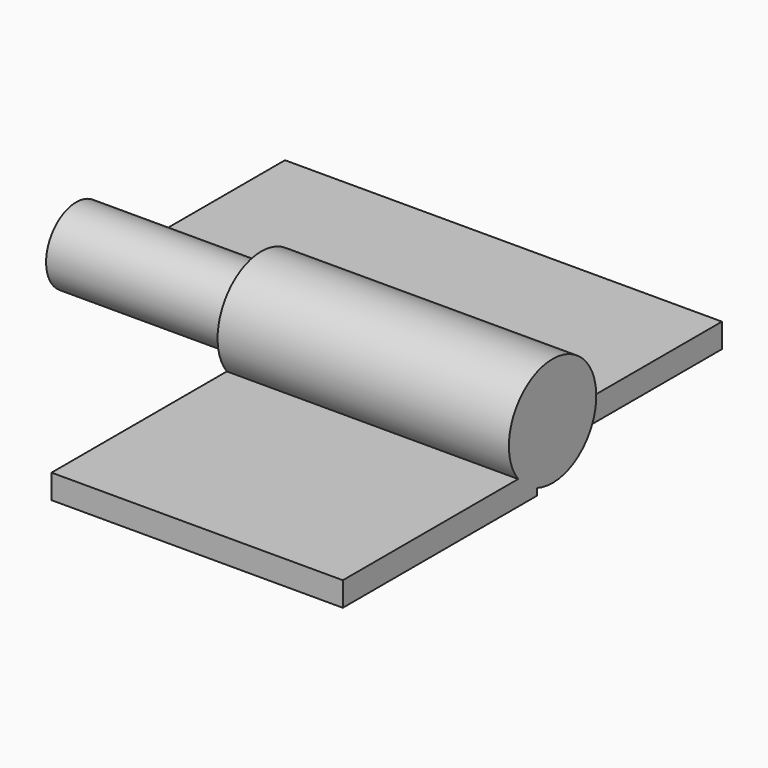
from build123d import *

# Parameters (mm, degrees)
PAD_DEPTH               = 5
SKETCH001_R             = 7.75
PAD001_DEPTH            = 67.5
SKETCH002_W             = 60
SKETCH002_H             = 50
PAD002_DEPTH            = 5
SKETCH003_R             = 11.25
SKETCH003_R_2           = 8.25
PAD003_DEPTH            = 60
SKETCH004_R             = 8.25
PAD004_DEPTH            = 22.5
BODY001_PLACEMENT_ANGLE = 180


with BuildPart() as body:
    # Sketch → Pad (new body)
    with BuildSketch(Plane.XY):
        Polygon((76.141969, -8.541567), (76.141969, 31.458433), (-13.858031, 31.458433), (-13.858031, -18.541567), (16.141969, -18.541567), (16.141969, -8.541567), align=None)
    extrude(amount=PAD_DEPTH)

    # Sketch001 (on Face3 of Pad) → Pad001 (join)
    with BuildSketch(Plane(origin=(-13.858031, 0, 0), x_dir=(0, -1, 0), z_dir=(-1, 0, 0))):
        with Locations((22.291567, 11.495191)):
            Circle(SKETCH001_R)
    extrude(amount=-PAD001_DEPTH)


with BuildPart() as body001:
    # Sketch002 → Pad002 (new body)
    with BuildSketch(Plane.XY):
        with Locations((-48.304611, -31.033425)):
            Rectangle(SKETCH002_W, SKETCH002_H)
    extrude(amount=PAD002_DEPTH)

    # Sketch003 (on Face2 of Pad002) → Pad003 (join)
    with BuildSketch(Plane(origin=(-78.304611, 0, 0), x_dir=(0, -1, 0), z_dir=(-1, 0, 0))):
        with Locations((60.033425, 11.928203)):
            Circle(SKETCH003_R)
        with Locations((60.033425, 11.928203)):
            Circle(SKETCH003_R_2, mode=Mode.SUBTRACT)
    extrude(amount=-PAD003_DEPTH)

    # Sketch004 (on Face8 of Pad003) → Pad004 (join)
    with BuildSketch(Plane(origin=(-78.304611, 0, 0), x_dir=(0, -1, 0), z_dir=(-1, 0, 0))):
        with Locations((60.033425, 11.928203)):
            Circle(SKETCH004_R)
    extrude(amount=-PAD004_DEPTH)


with BuildPart() as body001_1:
    # Body001 placement: moved
    add(body001.part.moved(Location((6.5, -83, 0))).rotate(Axis((6.5, -83, 0), (0, 0, 1)), BODY001_PLACEMENT_ANGLE))


solid = Compound([body.part, body001_1.part])
